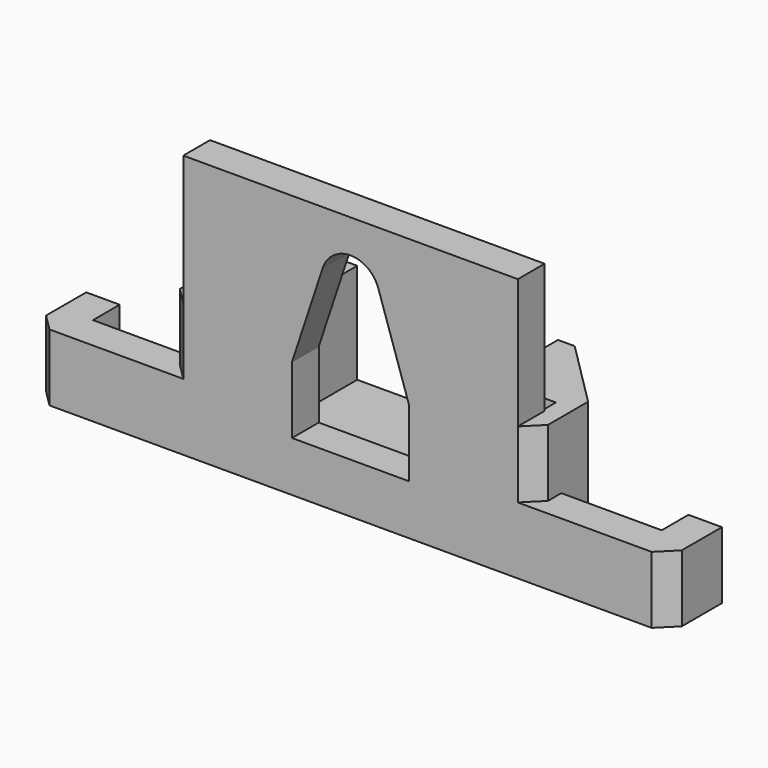
from build123d import *

# Parameters (mm, degrees)
PAD012_DEPTH        = 10
SKETCH042_W         = 8
SKETCH042_H         = 1.125
PAD013_DEPTH        = 8
SKETCH043_W         = 6
SKETCH043_H         = 12
POCKET028_DEPTH     = 6
POCKET029_DEPTH     = 5
CHAMFER027_SIZE     = 1
CHAMFER028_SIZE     = 4
PAD014_DEPTH        = 4
CHAMFER029_SIZE     = 1
CLONE009_ROLL_ANGLE = -90


with BuildPart() as part:
    # Sketch041 → Pad012 (new body, symmetric)
    with BuildSketch(Plane.YZ):
        Polygon((-3.25, -21), (-3.25, -23), (12.5, -23), (12.5, -15), (4.5, -15), (4.5, -20), (10, -20), (10, -21), align=None)
    extrude(amount=PAD012_DEPTH, both=True)

    # Sketch042 → Pad013 (new body)
    with BuildSketch(Plane.YX.offset(23)):
        with Locations((8.5, 10.4375)):
            Rectangle(SKETCH042_W, SKETCH042_H)
    pad013 = extrude(amount=-PAD013_DEPTH)

    # Mirrored003: Pad013 across Sketch042 H_Axis
    add(pad013.mirror(Plane(origin=(0, 0, -23), x_dir=(0, 0, -1), z_dir=(1, 0, 0))))

    # Sketch043 → Pocket028 (cut)
    with BuildSketch(Plane(origin=(0, 4.5, 0), x_dir=(0, 0, -1), z_dir=(0, -1, 0))):
        with Locations((17.5, 0)):
            Rectangle(SKETCH043_W, SKETCH043_H)
    extrude(amount=-POCKET028_DEPTH, mode=Mode.SUBTRACT)

    # Sketch044 → Pocket029 (cut)
    with BuildSketch(Plane.YX.offset(23)):
        with BuildLine():
            Line((5.5, 3.5), (9.5, 3.5))
            Line((9.5, 3.5), (9.5, -3.5))
            Line((9.5, -3.5), (5.5, -3.5))
            Line((5.5, -3.5), (-0.050331, -1.661215))
            ThreePointArc((-0.050345, 1.661211), (-1.25, -7e-06), (-0.050331, -1.661215))
            Line((5.5, 3.5), (-0.050345, 1.661211))
        make_face()
    extrude(amount=-POCKET029_DEPTH, mode=Mode.SUBTRACT)

    # Chamfer027
    chamfer027_edges = [part.edges().sort_by_distance(p)[0] for p in [
        (11, 8.5, -23),
        (-11, 8.5, -23),
    ]]
    chamfer(chamfer027_edges, length=CHAMFER027_SIZE)

    # Chamfer028
    chamfer028_edges = [part.edges().sort_by_distance(p)[0] for p in [
        (-11, 8.5, -15),
        (11, 8.5, -15),
    ]]
    chamfer(chamfer028_edges, length=CHAMFER028_SIZE)

    # Sketch045 → Pad014 (new body)
    with BuildSketch(Plane.ZX.offset(12.5)):
        Polygon((-23, 9), (-21, 9), (-21, 17), (-19, 17), (-19, 19), (-23, 19), align=None)
    pad014 = extrude(amount=-PAD014_DEPTH)

    # Mirrored004: Pad014 across Sketch045 H_Axis
    add(pad014.mirror(Plane(origin=(0, 12.5, 0), x_dir=(0, 1, 0), z_dir=(1, 0, 0))))

    # Chamfer029
    chamfer029_edges = [part.edges().sort_by_distance(p)[0] for p in [
        (-19, 10.5, -23),
        (19, 10.5, -23),
    ]]
    chamfer(chamfer029_edges, length=CHAMFER029_SIZE)


with BuildPart() as part_1:
    # Clone009 roll: moved
    add(part.part.rotate(Axis((0, 0, 0), (1, 0, 0)), CLONE009_ROLL_ANGLE))


with BuildPart() as part_2:
    # Clone009 placement: moved
    add(part_1.part.moved(Location((-112, -13, -25.5))))


solid = part_2.part
